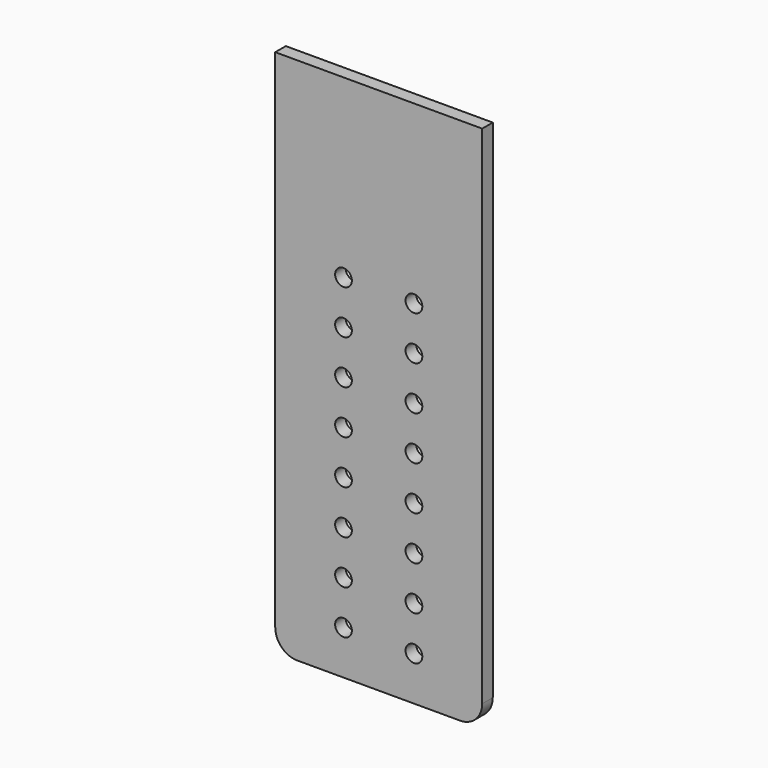
from build123d import *

# Parameters (mm, degrees)
CYLINDER002_R     = 1.9
CYLINDER002_DEPTH = 20
ARRAY003_Z_COUNT  = 8
ARRAY003_Z_PITCH  = 10
BOX003_W          = 47
BOX003_H          = 3
BOX003_DEPTH      = 120
FILLET003_R       = 5


with BuildPart() as laser_attachment_hole:
    # Cylinder002 → Cylinder002 (new body)
    with BuildSketch(Plane(origin=(8, 0, 0), x_dir=(1, 0, 0), z_dir=(0, -1, 0))):
        Circle(CYLINDER002_R)
    extrude(amount=CYLINDER002_DEPTH)


with BuildPart() as laser_hole_array:
    # Part__Mirroring003: instance of laser attachment hole
    add(laser_attachment_hole.part.mirror(Plane(origin=(0, 0, 0), x_dir=(0, -1, 0), z_dir=(1, 0, 0))))

    # Fusion002: union laser attachment hole
    add(laser_attachment_hole.part)

    # Array003 Z: laser hole array ×8


with BuildPart() as laser_hole_array_1:
    add(laser_hole_array.part)
    with Locations(*[(0, 0, i * ARRAY003_Z_PITCH) for i in range(1, ARRAY003_Z_COUNT)]):
        add(laser_hole_array.part)


with BuildPart() as laser_hole_array_2:
    # Array003 placement: moved
    add(laser_hole_array_1.part.moved(Location((0, 0, -5))))


with BuildPart() as holder_with_holes:
    # Box003 → Box003 (new body)
    with BuildSketch(Plane(origin=(-23.5, -11, -15), x_dir=(1, 0, 0), z_dir=(0, 0, 1))):
        with Locations((23.5, 1.5)):
            Rectangle(BOX003_W, BOX003_H)
    extrude(amount=BOX003_DEPTH)

    # Fillet003
    fillet003_edges = [holder_with_holes.edges().sort_by_distance(p)[0] for p in [
        (-23.5, -9.5, -15),
        (23.5, -9.5, -15),
    ]]
    fillet(fillet003_edges, radius=FILLET003_R)

    # Cut002: cut laser hole array
    add(laser_hole_array_2.part, mode=Mode.SUBTRACT)


solid = holder_with_holes.part
